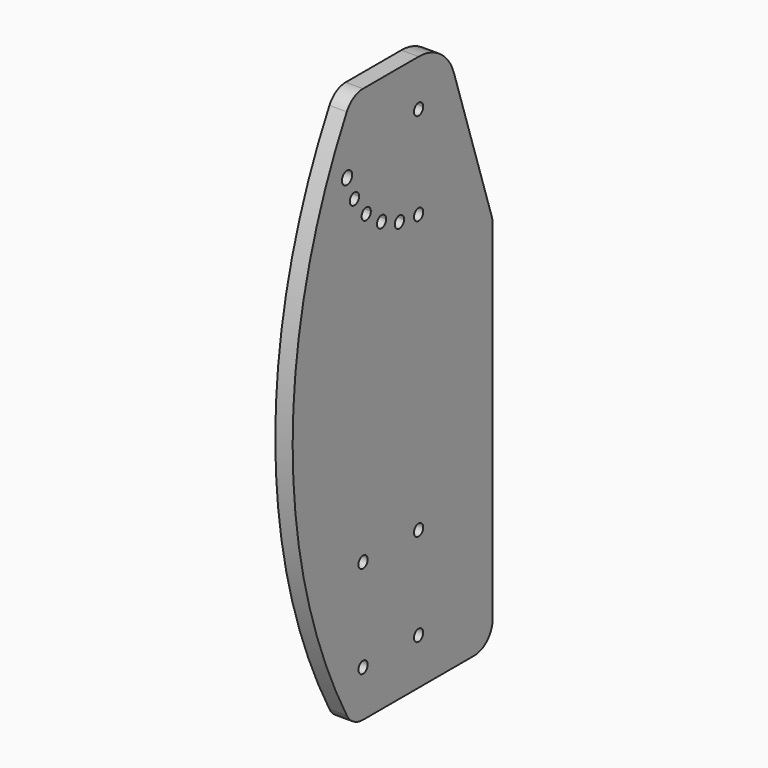
from build123d import *

# Parameters (mm, degrees)
F0_R     = 6.35
F0_R_2   = 7.002019
F1_DEPTH = 19.05
F3_DEPTH = 19.051


with BuildPart() as f1:
    # F0 (on Right) → F1 (new body)
    with BuildSketch(Plane.YZ):
        with BuildLine():
            ThreePointArc((-19.946015, 155.861936), (-21.258221, 159.727571), (-24.652514, 161.995565))
            ThreePointArc((-24.652514, 161.995565), (-31.333809, 151.996301), (-19.946015, 155.861936))
        make_face()
        with BuildLine():
            ThreePointArc((-44.45, 166.011819), (-45.300739, 169.186819), (-47.625, 171.51108))
            ThreePointArc((-47.625, 171.51108), (-56.299261, 162.836819), (-44.45, 166.011819))
        make_face()
        with BuildLine():
            ThreePointArc((-65.492049, 182.157951), (-65.975414, 184.587991), (-67.351921, 186.648079))
            ThreePointArc((-67.351921, 186.648079), (-77.708684, 179.727911), (-65.492049, 182.157951))
        make_face()
        with BuildLine():
            ThreePointArc((-81.638181, 203.2), (-81.854552, 204.843501), (-82.48892, 206.375))
            ThreePointArc((-82.48892, 206.375), (-94.12181, 201.556499), (-81.638181, 203.2))
        make_face()
        with BuildLine():
            Line((-76.2, -304.8), (76.2, -304.8))
            ThreePointArc((76.2, -304.8), (94.160512, -297.360512), (101.6, -279.4))
            Line((101.6, -279.4), (101.6, 304.8))
            Line((101.6, 304.8), (-76.2, 304.8))
            ThreePointArc((-76.2, 304.8), (-89.17315, 301.237065), (-98.506733, 291.547826))
            ThreePointArc((-98.506733, 291.547826), (-172.745149, 0), (-98.506733, -291.547826))
            ThreePointArc((-98.506733, -291.547826), (-89.17315, -301.237065), (-76.2, -304.8))
        make_face()
        with Locations((-76.2, -254)):
            Circle(F0_R, mode=Mode.SUBTRACT)
        with Locations((-76.2, -152.4)):
            Circle(F0_R, mode=Mode.SUBTRACT)
        with Locations((0, -254)):
            Circle(F0_R, mode=Mode.SUBTRACT)
        with Locations((0, -152.4)):
            Circle(F0_R, mode=Mode.SUBTRACT)
        with BuildLine():
            ThreePointArc((-65.492049, 182.157951), (-77.708684, 179.727911), (-67.351921, 186.648079))
            ThreePointArc((-67.351921, 186.648079), (-65.975414, 184.587991), (-65.492049, 182.157951))
        make_face(mode=Mode.SUBTRACT)
        with BuildLine():
            ThreePointArc((-81.638181, 203.2), (-94.12181, 201.556499), (-82.48892, 206.375))
            ThreePointArc((-82.48892, 206.375), (-81.854552, 204.843501), (-81.638181, 203.2))
        make_face(mode=Mode.SUBTRACT)
        with Locations((-98.138064, 227.703985)):
            Circle(F0_R_2, mode=Mode.SUBTRACT)
        with BuildLine():
            ThreePointArc((-44.45, 166.011819), (-56.299261, 162.836819), (-47.625, 171.51108))
            ThreePointArc((-47.625, 171.51108), (-45.300739, 169.186819), (-44.45, 166.011819))
        make_face(mode=Mode.SUBTRACT)
        with Locations((0, 152.4)):
            Circle(F0_R, mode=Mode.SUBTRACT)
        with BuildLine():
            ThreePointArc((-19.946015, 155.861936), (-31.333809, 151.996301), (-24.652514, 161.995565))
            ThreePointArc((-24.652514, 161.995565), (-21.258221, 159.727571), (-19.946015, 155.861936))
        make_face(mode=Mode.SUBTRACT)
        with BuildLine():
            ThreePointArc((-5.499261, 250.825), (-1.643501, 260.133629), (6.35, 254))
            ThreePointArc((6.35, 254), (3.865635, 248.962206), (-1.643501, 247.866371))
            ThreePointArc((-1.643501, 247.866371), (-2.43004, 248.133365), (-3.175, 248.500739))
            ThreePointArc((-3.175, 248.500739), (-3.865635, 248.962206), (-4.490128, 249.509872))
            ThreePointArc((-4.490128, 249.509872), (-5.037794, 250.134365), (-5.499261, 250.825))
        make_face(mode=Mode.SUBTRACT)
    extrude(amount=F1_DEPTH)

    # F2 (on face) → F3 (cut, through all)
    with BuildSketch(Plane(origin=(0, 0, 0), x_dir=(0, -1, 0), z_dir=(-1, 0, 0))):
        with BuildLine():
            ThreePointArc((-48.315877, 269.691272), (-29.862379, 295.095965), (0, 304.8))
            Line((0, 304.8), (-101.6, 304.8))
            Line((-101.6, 304.8), (-101.6, 101.6))
            ThreePointArc((-101.6, 101.6), (-101.287563, 105.571672), (-100.357939, 109.445636))
            Line((-100.357939, 109.445636), (-48.315877, 269.691272))
        make_face()
    extrude(amount=-F3_DEPTH, mode=Mode.SUBTRACT)


solid = f1.part
